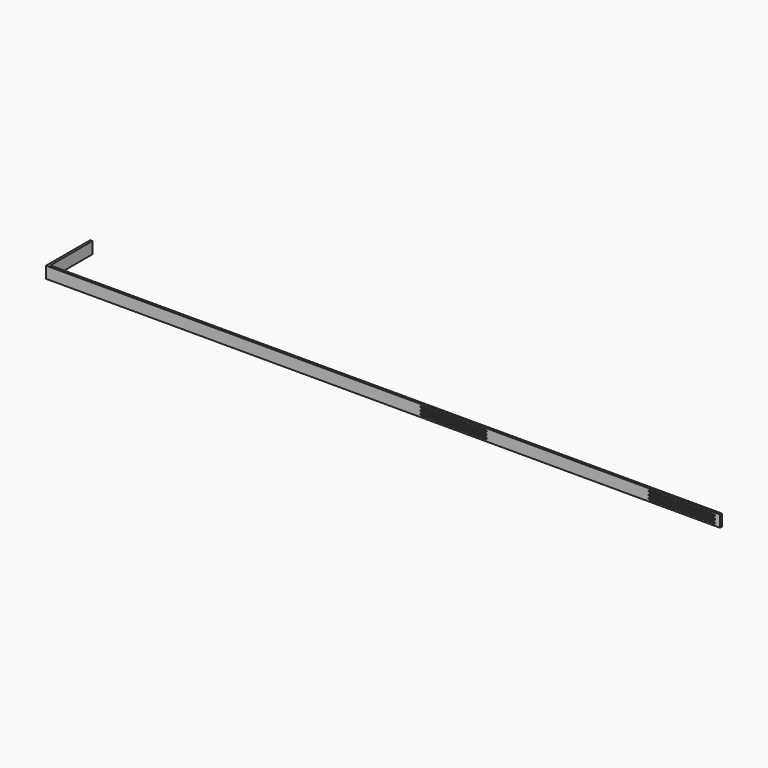
from build123d import *

# Parameters (mm, degrees)
F1_DEPTH = 90
F3_DEPTH = 18


with BuildPart() as f1:
    # F0 (on Top) → F1 (new body)
    with BuildSketch(Plane.XY):
        Polygon((2600, -9), (2600, 9), (-2582, 9), (-2582, 416), (-2600, 416), (-2600, 9), (-2600, -9), align=None)
    extrude(amount=F1_DEPTH)

    # F2 (on face) → F3 (cut)
    with BuildSketch(Plane.XZ.offset(9)):
        with BuildLine():
            Line((2555, 76), (2055, 76))
            ThreePointArc((2055, 76), (2049, 70), (2055, 64))
            Line((2055, 64), (2555, 64))
            ThreePointArc((2555, 64), (2561, 70), (2555, 76))
        make_face()
        with BuildLine():
            Line((2555, 51), (2055, 51))
            ThreePointArc((2055, 51), (2049, 45), (2055, 39))
            Line((2055, 39), (2555, 39))
            ThreePointArc((2555, 39), (2561, 45), (2555, 51))
        make_face()
        with BuildLine():
            Line((2555, 26), (2055, 26))
            ThreePointArc((2055, 26), (2049, 20), (2055, 14))
            Line((2055, 14), (2555, 14))
            ThreePointArc((2555, 14), (2561, 20), (2555, 26))
        make_face()
        with BuildLine():
            Line((794, 76), (294, 76))
            ThreePointArc((294, 76), (288, 70), (294, 64))
            Line((294, 64), (794, 64))
            ThreePointArc((794, 64), (800, 70), (794, 76))
        make_face()
        with BuildLine():
            Line((794, 51), (294, 51))
            ThreePointArc((294, 51), (288, 45), (294, 39))
            Line((294, 39), (794, 39))
            ThreePointArc((794, 39), (800, 45), (794, 51))
        make_face()
        with BuildLine():
            Line((794, 26), (294, 26))
            ThreePointArc((294, 26), (288, 20), (294, 14))
            Line((294, 14), (794, 14))
            ThreePointArc((794, 14), (800, 20), (794, 26))
        make_face()
    extrude(amount=-F3_DEPTH, mode=Mode.SUBTRACT)


solid = f1.part
